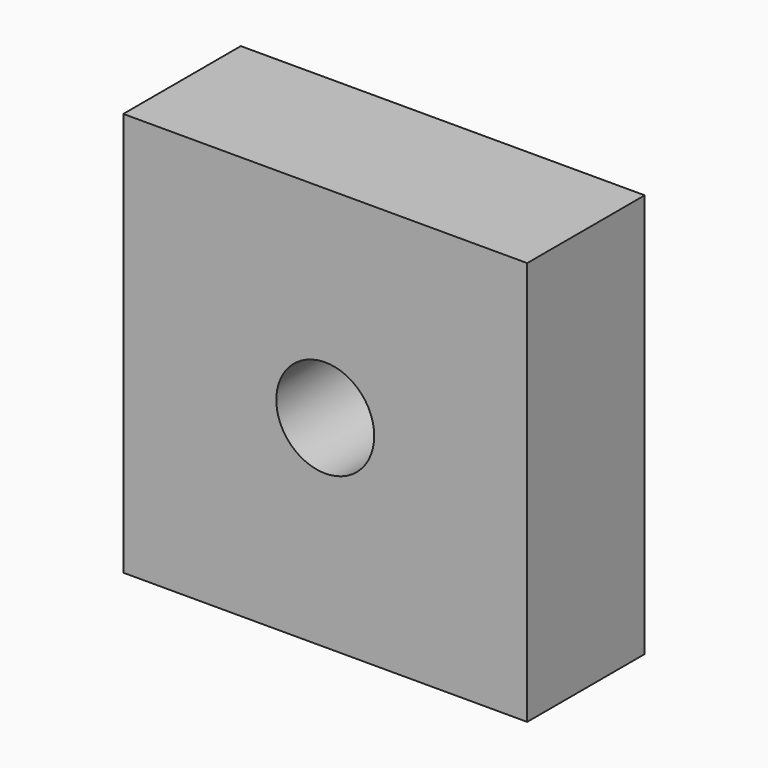
from build123d import *

# Parameters (mm, degrees)
F0_W     = 33
F0_H     = 33
F1_DEPTH = 12
F2_R     = 4
F3_DEPTH = 12


with BuildPart() as f1:
    # F0 (on Front) → F1 (new body)
    with BuildSketch(Plane.XZ):
        Rectangle(F0_W, F0_H)
    extrude(amount=-F1_DEPTH)

    # F2 (on face) → F3 (cut)
    with BuildSketch(Plane.XZ):
        Circle(F2_R)
    extrude(amount=-F3_DEPTH, mode=Mode.SUBTRACT)


solid = f1.part
